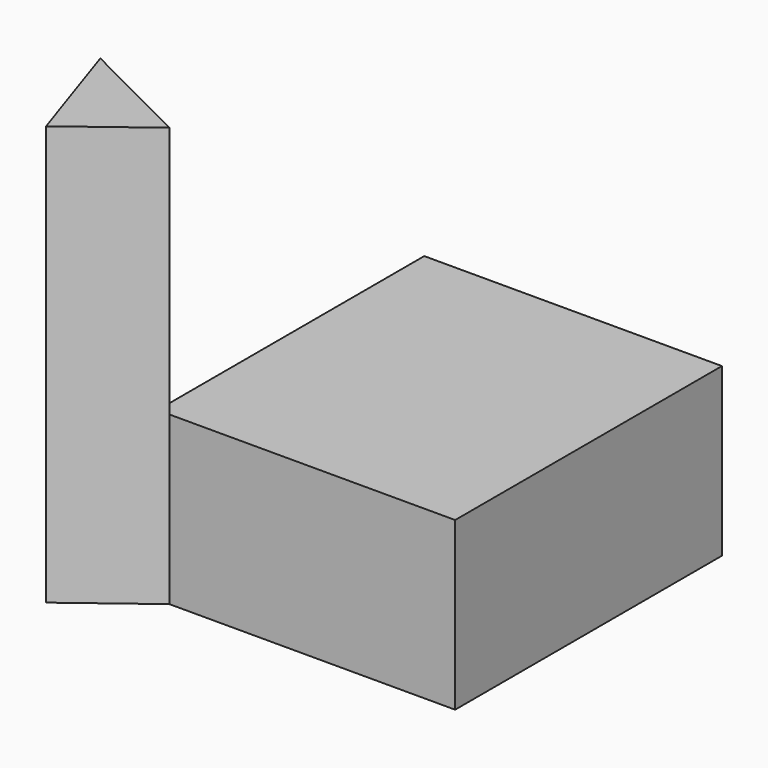
from build123d import *

# Parameters (mm, degrees)
F0_W     = 130.326405
F0_H     = 145.997494
F1_DEPTH = 73.111108
F3_DEPTH = 183.613846


with BuildPart() as f1:
    # F0 (on Top) → F1 (new body)
    with BuildSketch(Plane.XY):
        with Locations((65.163202, 72.998747)):
            Rectangle(F0_W, F0_H)
    extrude(amount=F1_DEPTH)

    # F2 (on Top) → F3 (join)
    with BuildSketch(Plane.XY):
        Polygon((5.227758, 0.02072), (-45.36109, 25.415286), (-28.412694, -25.452353), align=None)
    extrude(amount=F3_DEPTH)


solid = f1.part
